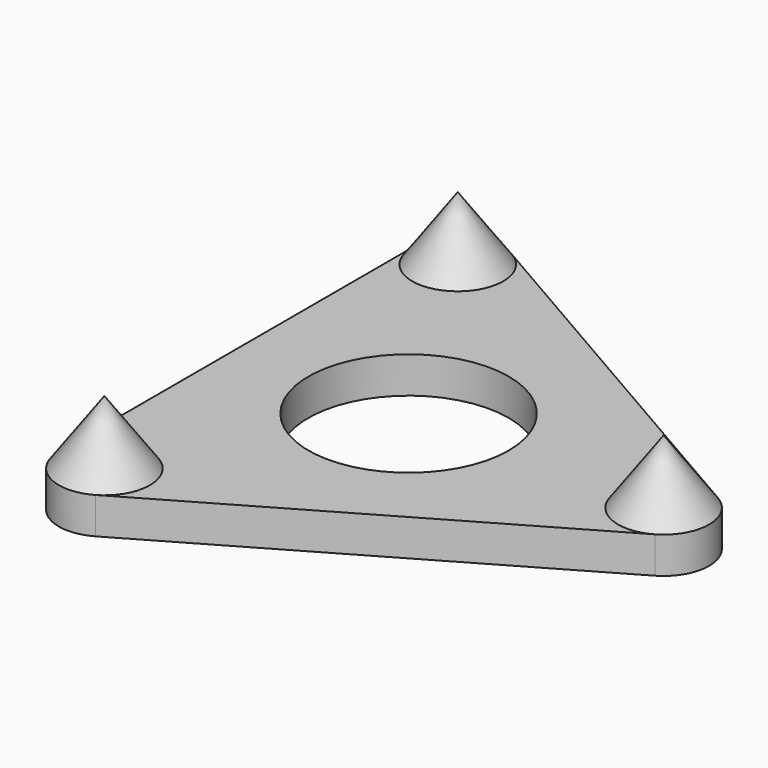
from build123d import *

# Parameters (mm, degrees)
ARRAY_COUNT   = 3
SKETCH_R      = 11
EXTRUDE_DEPTH = 4


with BuildPart() as array:
    # Sketch001 → Revolve (revolve)
    with BuildSketch(Plane.XZ):
        Polygon((0, 0), (0, 7), (5, 0), align=None)
    revolve(axis=Axis((0, 0, 4), (0, 0, 1)))

    # Array: Array ×3 about axis
    array_axis = Axis((-28, 0, 0), (0, 0, 1))


with BuildPart() as array_1:
    add(array.part)
    for i in range(1, ARRAY_COUNT):
        add(array.part.rotate(array_axis, i * 360 / ARRAY_COUNT))


with BuildPart() as array_2:
    # Array placement: moved
    add(array_1.part.moved(Location((28, 0, 4))))


with BuildPart() as fusion:
    # Sketch → Extrude (new body)
    with BuildSketch(Plane.XY):
        with BuildLine():
            Line((-19, 24.248711), (-19, -24.248711))
            ThreePointArc((-19, -24.248711), (-16.5, -28.578838), (-11.5, -28.578838))
            Line((-11.5, -28.578838), (30.5, -4.330127))
            ThreePointArc((30.5, -4.330127), (33, 0), (30.5, 4.330127))
            Line((30.5, 4.330127), (-11.5, 28.578838))
            ThreePointArc((-11.5, 28.578838), (-16.5, 28.578838), (-19, 24.248711))
        make_face()
        Circle(SKETCH_R, mode=Mode.SUBTRACT)
    extrude(amount=EXTRUDE_DEPTH)

    # Fusion: union Array
    add(array_2.part)


solid = fusion.part
